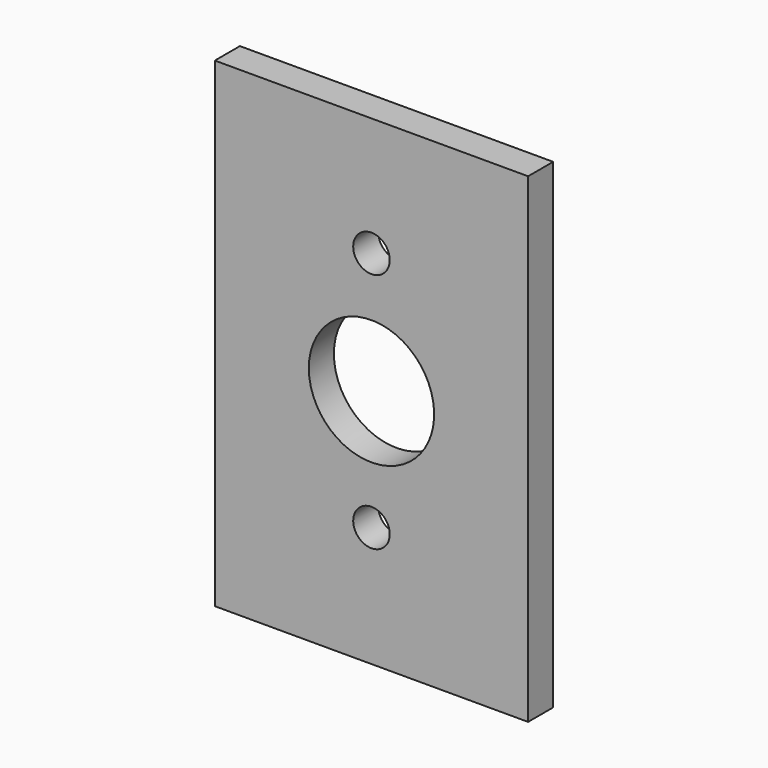
from build123d import *

# Parameters (mm, degrees)
F1_W     = 95.25
F1_H     = 146.05
F2_DEPTH = 9.525
F3_D     = 38.1
F3_DEPTH = 12.7
F3_TIP   = 11.4463947925
F4_D     = 11.1125
F5_D     = 11.1125


with BuildPart() as f2:
    # F1 (on Front) → F2 (new body)
    with BuildSketch(Plane.XZ):
        Rectangle(F1_W, F1_H)
    extrude(amount=F2_DEPTH)

    # F3
    with Locations(Plane(origin=(0, 0, 0), x_dir=(1, 0, 0), z_dir=(0, 1, 0))):
        with Locations((0, 0)):
            Hole(F3_D / 2, depth=F3_DEPTH)
            with Locations((0, 0, -(F3_DEPTH + F3_TIP / 2))):  # 118° drill point
                Cone(0, F3_D / 2, F3_TIP, mode=Mode.SUBTRACT)

    # F4 (through all)
    with Locations(Plane(origin=(0, 0, 0), x_dir=(1, 0, 0), z_dir=(0, 1, 0))):
        with Locations((0, -36.9038395584)):
            Hole(F4_D / 2)

    # F5 (through all)
    with Locations(Plane(origin=(0, 0, 0), x_dir=(1, 0, 0), z_dir=(0, 1, 0))):
        with Locations((0, 36.4790037274)):
            Hole(F5_D / 2)


solid = f2.part
